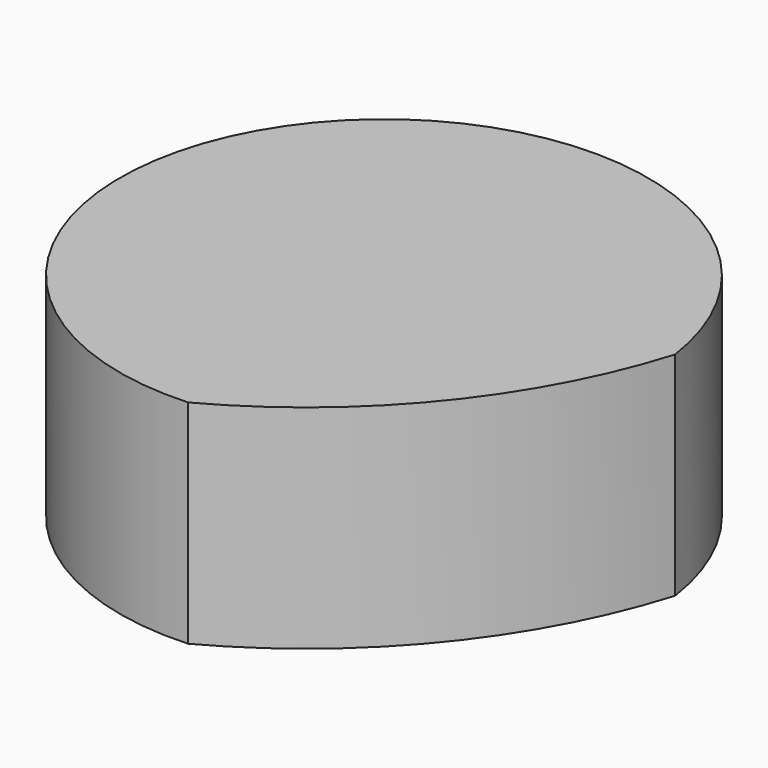
from build123d import *

# Parameters (mm, degrees)
F1_DEPTH = 25.4


with BuildPart() as f1:
    # F0 (on Top) → F1 (new body)
    with BuildSketch(Plane.XY):
        with BuildLine():
            ThreePointArc((2.488544, -2.036081), (-1.208117, -36.335766), (28.705808, -53.519793))
            ThreePointArc((28.705808, -53.519793), (47.004077, -38.457879), (58.144315, -17.539395))
            ThreePointArc((58.144315, -17.539395), (35.377015, 8.379396), (2.488544, -2.036081))
        make_face()
    extrude(amount=F1_DEPTH)


solid = f1.part
